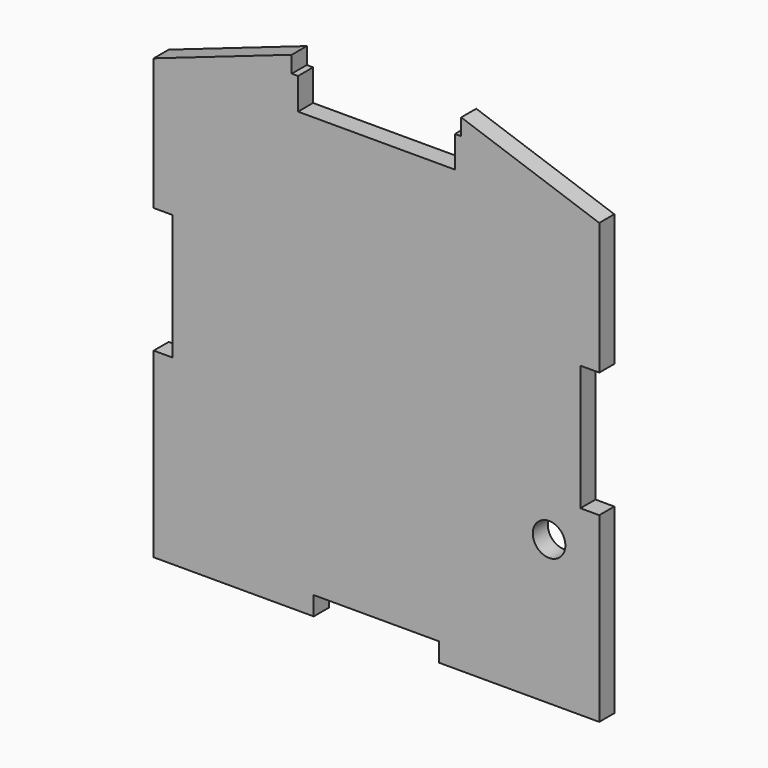
from build123d import *

# Parameters (mm, degrees)
F1_DEPTH = 3
F2_R     = 2.6
F3_DEPTH = 25


with BuildPart() as f1:
    # F0 (on Front) → F1 (new body)
    with BuildSketch(Plane.XZ):
        Polygon((-12.5, 31), (-35.5, 31), (-35.5, 10), (-32.5, 10), (-32.5, -10), (-35.5, -10), (-35.5, -39), (-10, -39), (-10, -36), (10, -36), (10, -39), (35.5, -39), (35.5, -10), (32.5, -10), (32.5, 10), (35.5, 10), (35.5, 31), (12.5, 31), align=None)
        Polygon((-13.5, 38.652174), (-35.5, 31), (-12.5, 31), (-12.5, 36), (-13.5, 36), align=None)
        Polygon((12.5, 36), (12.5, 31), (35.5, 31), (13.5, 38.652174), (13.5, 36), align=None)
    extrude(amount=F1_DEPTH)

    # F2 (on face) → F3 (cut)
    with BuildSketch(Plane.XZ.offset(3)):
        with Locations((27.5, -16)):
            Circle(F2_R)
    extrude(amount=-F3_DEPTH, mode=Mode.SUBTRACT)


solid = f1.part
